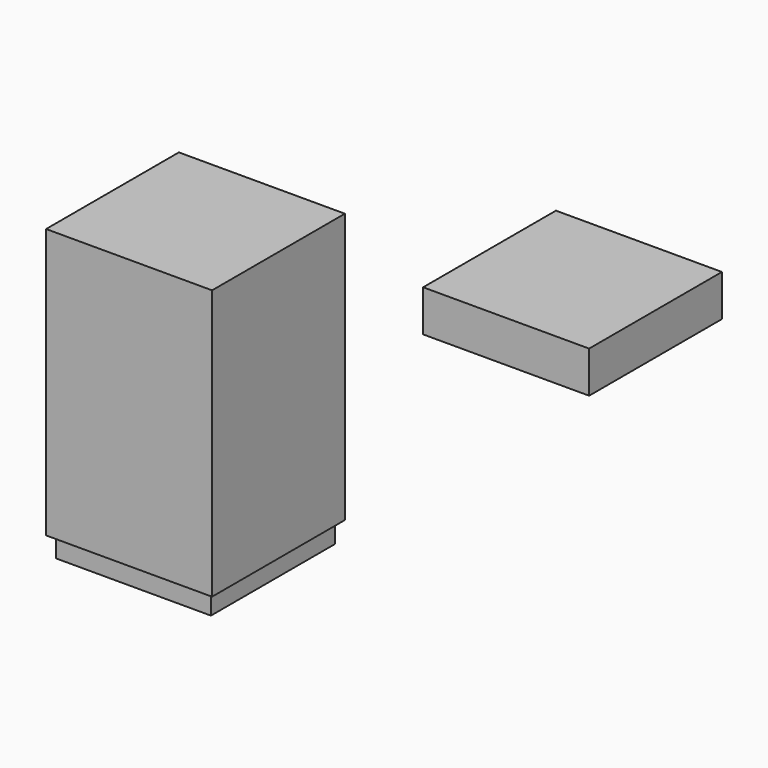
from build123d import *

# Parameters (mm, degrees)
F0_W     = 40
F0_H     = 40
F1_DEPTH = 5
F2_W     = 40
F2_H     = 40
F2_W_2   = 35
F2_H_2   = 35
F3_DEPTH = 60
F4_W     = 37.3
F4_H     = 37.3
F4_W_2   = 35
F4_H_2   = 35
F5_DEPTH = 5
F6_W     = 40
F6_H     = 40
F6_W_2   = 37.5
F6_H_2   = 37.5
F7_DEPTH = 5
F8_DEPTH = 5


with BuildPart() as f1:
    # F0 (on Top) → F1 (new body)
    with BuildSketch(Plane.XY):
        Rectangle(F0_W, F0_H)
    extrude(amount=F1_DEPTH)

    # F2 (on face) → F3 (join)
    with BuildSketch(Plane(origin=(0, 0, 0), x_dir=(1, 0, 0), z_dir=(0, 0, -1))):
        Rectangle(F2_W, F2_H)
        Rectangle(F2_W_2, F2_H_2, mode=Mode.SUBTRACT)
    extrude(amount=F3_DEPTH)

    # F4 (on face) → F5 (join)
    with BuildSketch(Plane(origin=(0, 0, -60), x_dir=(1, 0, 0), z_dir=(0, 0, -1))):
        Rectangle(F4_W, F4_H)
        Rectangle(F4_W_2, F4_H_2, mode=Mode.SUBTRACT)
    extrude(amount=F5_DEPTH)


with BuildPart() as f7:
    # F6 (on Top) → F7 (new body)
    with BuildSketch(Plane.XY):
        with Locations((70.2371150255, 25.7852885835)):
            Rectangle(F6_W, F6_H)
        with Locations((70.2371150255, 25.7852885835)):
            Rectangle(F6_W_2, F6_H_2, mode=Mode.SUBTRACT)
        with Locations((70.2371150255, 25.7852885835)):
            Rectangle(F6_W_2, F6_H_2)
    extrude(amount=F7_DEPTH)

    # F6 (on Top) → F8 (join)
    with BuildSketch(Plane.XY):
        with Locations((70.2371150255, 25.7852885835)):
            Rectangle(F6_W, F6_H)
        with Locations((70.2371150255, 25.7852885835)):
            Rectangle(F6_W_2, F6_H_2, mode=Mode.SUBTRACT)
    extrude(amount=-F8_DEPTH)


solid = Compound([f1.part, f7.part])
